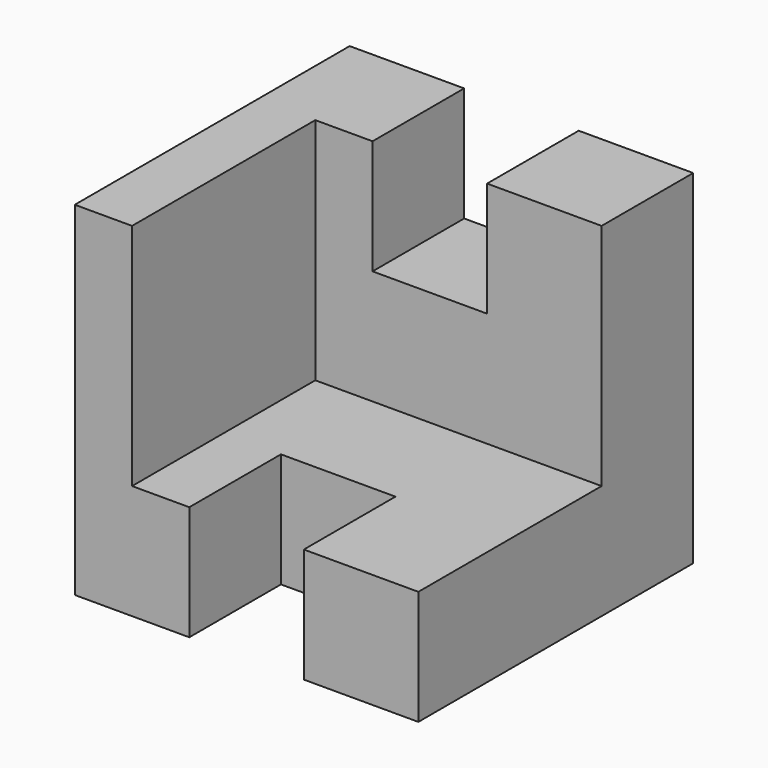
from build123d import *

# Parameters (mm, degrees)
F0_W     = 30
F0_H     = 30
F1_DEPTH = 30
F2_W     = 25
F2_H     = 20
F3_DEPTH = 20
F4_W     = 10
F4_H     = 10
F5_DEPTH = 10.001
F6_W     = 10
F6_H     = 10
F7_DEPTH = 10.001


with BuildPart() as f1:
    # F0 (on Top) → F1 (new body)
    with BuildSketch(Plane.XY):
        with Locations((15, 15)):
            Rectangle(F0_W, F0_H)
    extrude(amount=F1_DEPTH)

    # F2 (on face) → F3 (cut)
    with BuildSketch(Plane.XZ):
        with Locations((17.5, 20)):
            Rectangle(F2_W, F2_H)
    extrude(amount=-F3_DEPTH, mode=Mode.SUBTRACT)

    # F4 (on face) → F5 (cut, through all)
    with BuildSketch(Plane.XZ.offset(-20)):
        with Locations((15, 25)):
            Rectangle(F4_W, F4_H)
    extrude(amount=-F5_DEPTH, mode=Mode.SUBTRACT)

    # F6 (on face) → F7 (cut, through all)
    with BuildSketch(Plane.XY.offset(10)):
        with Locations((15, 5)):
            Rectangle(F6_W, F6_H)
    extrude(amount=-F7_DEPTH, mode=Mode.SUBTRACT)


solid = f1.part
